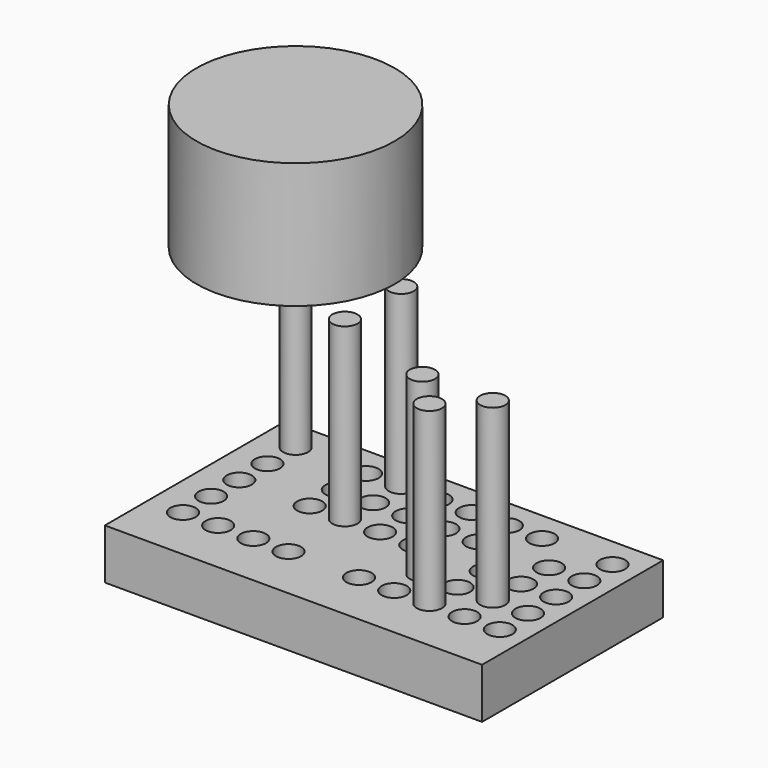
from build123d import *

# Parameters (mm, degrees)
F0_W     = 75
F0_H     = 45
F0_R     = 2.5
F1_DEPTH = 10
F2_DEPTH = 45
F3_R     = 19.69693
F4_DEPTH = 25


with BuildPart() as f1:
    # F0 (on Top) → F1 (new body)
    with BuildSketch(Plane.XY):
        Rectangle(F0_W, F0_H)
        with Locations((-30.746223, -11.535893)):
            Circle(F0_R, mode=Mode.SUBTRACT)
        with Locations((-23.746223, -11.535893)):
            Circle(F0_R, mode=Mode.SUBTRACT)
        with Locations((-16.746223, -11.535893)):
            Circle(F0_R, mode=Mode.SUBTRACT)
        with Locations((-9.746223, -11.535893)):
            Circle(F0_R, mode=Mode.SUBTRACT)
        with Locations((-2.746223, -11.535893)):
            Circle(F0_R, mode=Mode.SUBTRACT)
        with Locations((-30.746223, -4.535893)):
            Circle(F0_R, mode=Mode.SUBTRACT)
        with Locations((-23.746223, -4.535893)):
            Circle(F0_R, mode=Mode.SUBTRACT)
        with Locations((-16.746223, -4.535893)):
            Circle(F0_R, mode=Mode.SUBTRACT)
        with Locations((-9.746223, -4.535893)):
            Circle(F0_R, mode=Mode.SUBTRACT)
        with Locations((-2.746223, -4.535893)):
            Circle(F0_R, mode=Mode.SUBTRACT)
        with Locations((4.253777, -11.535893)):
            Circle(F0_R, mode=Mode.SUBTRACT)
        with Locations((11.253777, -11.535893)):
            Circle(F0_R, mode=Mode.SUBTRACT)
        with Locations((18.253777, -11.535893)):
            Circle(F0_R, mode=Mode.SUBTRACT)
        with Locations((25.253777, -11.535893)):
            Circle(F0_R, mode=Mode.SUBTRACT)
        with Locations((32.253777, -11.535893)):
            Circle(F0_R, mode=Mode.SUBTRACT)
        with Locations((4.253777, -4.535893)):
            Circle(F0_R, mode=Mode.SUBTRACT)
        with Locations((11.253777, -4.535893)):
            Circle(F0_R, mode=Mode.SUBTRACT)
        with Locations((18.253777, -4.535893)):
            Circle(F0_R, mode=Mode.SUBTRACT)
        with Locations((25.253777, -4.535893)):
            Circle(F0_R, mode=Mode.SUBTRACT)
        with Locations((32.253777, -4.535893)):
            Circle(F0_R, mode=Mode.SUBTRACT)
        with Locations((-30.746223, 2.464107)):
            Circle(F0_R, mode=Mode.SUBTRACT)
        with Locations((-23.746223, 2.464107)):
            Circle(F0_R, mode=Mode.SUBTRACT)
        with Locations((-30.746223, 9.464107)):
            Circle(F0_R, mode=Mode.SUBTRACT)
        with Locations((-23.746223, 9.464107)):
            Circle(F0_R, mode=Mode.SUBTRACT)
        with Locations((-16.746223, 2.464107)):
            Circle(F0_R, mode=Mode.SUBTRACT)
        with Locations((-9.746223, 2.464107)):
            Circle(F0_R, mode=Mode.SUBTRACT)
        with Locations((-2.746223, 2.464107)):
            Circle(F0_R, mode=Mode.SUBTRACT)
        with Locations((-16.746223, 9.464107)):
            Circle(F0_R, mode=Mode.SUBTRACT)
        with Locations((-9.746223, 9.464107)):
            Circle(F0_R, mode=Mode.SUBTRACT)
        with Locations((-2.746223, 9.464107)):
            Circle(F0_R, mode=Mode.SUBTRACT)
        with Locations((-30.746223, 16.464107)):
            Circle(F0_R, mode=Mode.SUBTRACT)
        with Locations((-23.746223, 16.464107)):
            Circle(F0_R, mode=Mode.SUBTRACT)
        with Locations((-16.746223, 16.464107)):
            Circle(F0_R, mode=Mode.SUBTRACT)
        with Locations((-9.746223, 16.464107)):
            Circle(F0_R, mode=Mode.SUBTRACT)
        with Locations((-2.746223, 16.464107)):
            Circle(F0_R, mode=Mode.SUBTRACT)
        with Locations((4.253777, 2.464107)):
            Circle(F0_R, mode=Mode.SUBTRACT)
        with Locations((11.253777, 2.464107)):
            Circle(F0_R, mode=Mode.SUBTRACT)
        with Locations((18.253777, 2.464107)):
            Circle(F0_R, mode=Mode.SUBTRACT)
        with Locations((4.253777, 9.464107)):
            Circle(F0_R, mode=Mode.SUBTRACT)
        with Locations((11.253777, 9.464107)):
            Circle(F0_R, mode=Mode.SUBTRACT)
        with Locations((18.253777, 9.464107)):
            Circle(F0_R, mode=Mode.SUBTRACT)
        with Locations((25.253777, 2.464107)):
            Circle(F0_R, mode=Mode.SUBTRACT)
        with Locations((32.253777, 2.464107)):
            Circle(F0_R, mode=Mode.SUBTRACT)
        with Locations((25.253777, 9.464107)):
            Circle(F0_R, mode=Mode.SUBTRACT)
        with Locations((32.253777, 9.464107)):
            Circle(F0_R, mode=Mode.SUBTRACT)
        with Locations((4.253777, 16.464107)):
            Circle(F0_R, mode=Mode.SUBTRACT)
        with Locations((11.253777, 16.464107)):
            Circle(F0_R, mode=Mode.SUBTRACT)
        with Locations((18.253777, 16.464107)):
            Circle(F0_R, mode=Mode.SUBTRACT)
        with Locations((25.253777, 16.464107)):
            Circle(F0_R, mode=Mode.SUBTRACT)
        with Locations((32.253777, 16.464107)):
            Circle(F0_R, mode=Mode.SUBTRACT)
        with Locations((-23.746223, 16.464107)):
            Circle(F0_R)
        with Locations((-23.746223, 9.464107)):
            Circle(F0_R)
        with Locations((-23.746223, 2.464107)):
            Circle(F0_R)
        with Locations((-23.746223, -4.535893)):
            Circle(F0_R)
        with Locations((-16.746223, -4.535893)):
            Circle(F0_R)
        with Locations((-9.746223, -4.535893)):
            Circle(F0_R)
        with Locations((-2.746223, -4.535893)):
            Circle(F0_R)
        with Locations((-2.746223, -11.535893)):
            Circle(F0_R)
        with Locations((4.253777, -4.535893)):
            Circle(F0_R)
        with Locations((11.253777, 2.464107)):
            Circle(F0_R)
        with Locations((18.253777, 9.464107)):
            Circle(F0_R)
        with Locations((25.253777, 16.464107)):
            Circle(F0_R)
    extrude(amount=F1_DEPTH)

    # F0 (on Top) → F2 (join)
    with BuildSketch(Plane.XY):
        with Locations((-30.746223, 16.464107)):
            Circle(F0_R)
        with Locations((-9.746223, 16.464107)):
            Circle(F0_R)
        with Locations((-9.746223, 2.464107)):
            Circle(F0_R)
        with Locations((11.253777, -4.535893)):
            Circle(F0_R)
        with Locations((25.253777, -4.535893)):
            Circle(F0_R)
        with Locations((18.253777, -11.535893)):
            Circle(F0_R)
    extrude(amount=F2_DEPTH)

    # F3 (on face) → F4 (join)
    with BuildSketch(Plane.XY.offset(45)):
        with Locations((-30.746223, 16.464107)):
            Circle(F3_R)
    extrude(amount=F4_DEPTH)


solid = f1.part
